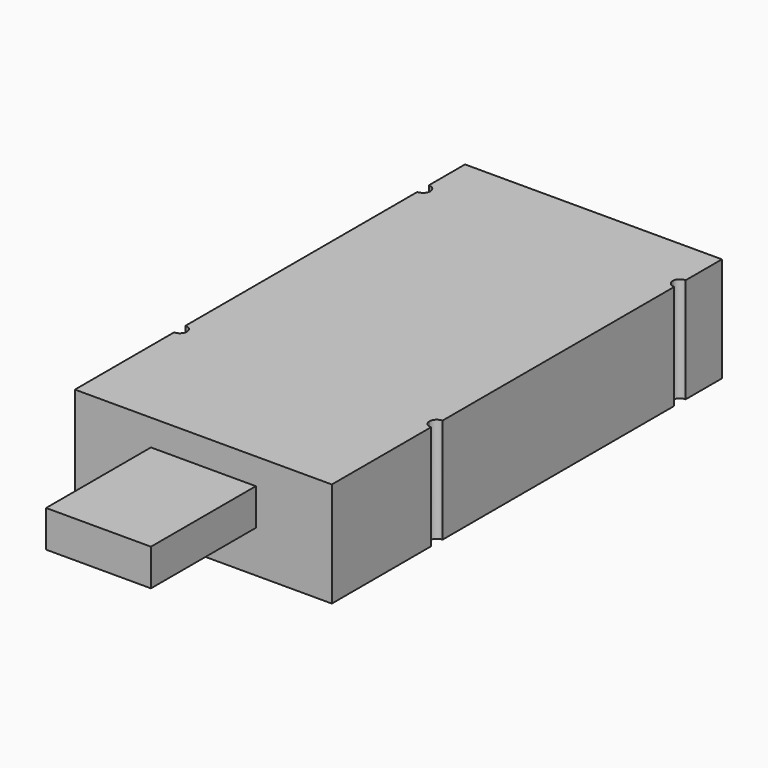
from build123d import *

# Parameters (mm, degrees)
F1_DEPTH = 20
F0_W     = 20
F0_H     = 25
F2_DEPTH = 15
F3_DEPTH = 8


with BuildPart() as f1:
    # F0 (on Top) → F1 (new body)
    with BuildSketch(Plane.XY):
        with BuildLine():
            Line((-14.6488370299, -47.0274474025), (-14.6488370299, 8.2225525975))
            ThreePointArc((-14.6488370299, 8.2225525975), (-15.6211088541, 8.6252807734), (-16.0238370299, 9.5975525975))
            Line((-16.0238370299, 9.5975525975), (-62.2738370299, 9.5975525975))
            ThreePointArc((-62.2738370299, 9.5975525975), (-62.6765652058, 8.6252807734), (-63.6488370299, 8.2225525975))
            Line((-63.6488370299, 8.2225525975), (-63.6488370299, -47.0274474025))
            ThreePointArc((-63.6488370299, -47.0274474025), (-62.6765652058, -47.4301755783), (-62.2738370299, -48.4024474025))
            Line((-62.2738370299, -48.4024474025), (-16.0238370299, -48.4024474025))
            ThreePointArc((-16.0238370299, -48.4024474025), (-15.6211088541, -47.4301755783), (-14.6488370299, -47.0274474025))
        make_face()
        with BuildLine():
            ThreePointArc((-16.0238370299, 9.5975525975), (-15.6211088541, 10.5698244217), (-14.6488370299, 10.9725525975))
            Line((-14.6488370299, 10.9725525975), (-14.6488370299, 19.5975525975))
            Line((-14.6488370299, 19.5975525975), (-63.6488370299, 19.5975525975))
            Line((-63.6488370299, 19.5975525975), (-63.6488370299, 10.9725525975))
            ThreePointArc((-63.6488370299, 10.9725525975), (-62.6765652058, 10.5698244217), (-62.2738370299, 9.5975525975))
            Line((-62.2738370299, 9.5975525975), (-16.0238370299, 9.5975525975))
        make_face()
        with BuildLine():
            ThreePointArc((-14.6488370299, -49.7774474025), (-15.6211088541, -49.3747192266), (-16.0238370299, -48.4024474025))
            Line((-16.0238370299, -48.4024474025), (-62.2738370299, -48.4024474025))
            ThreePointArc((-62.2738370299, -48.4024474025), (-62.6765652058, -49.3747192266), (-63.6488370299, -49.7774474025))
            Line((-63.6488370299, -49.7774474025), (-63.6488370299, -73.4024474025))
            Line((-63.6488370299, -73.4024474025), (-49.1488370299, -73.4024474025))
            Line((-49.1488370299, -73.4024474025), (-29.1488370299, -73.4024474025))
            Line((-29.1488370299, -73.4024474025), (-14.6488370299, -73.4024474025))
            Line((-14.6488370299, -73.4024474025), (-14.6488370299, -49.7774474025))
        make_face()
    extrude(amount=F1_DEPTH)

    # F0 (on Top) → F2 (join)
    with BuildSketch(Plane.XY):
        with Locations((-39.1488370299, -85.9024474025)):
            Rectangle(F0_W, F0_H)
    extrude(amount=F2_DEPTH)

    # F0 (on Top) → F3 (cut)
    with BuildSketch(Plane.XY):
        with Locations((-39.1488370299, -85.9024474025)):
            Rectangle(F0_W, F0_H)
    extrude(amount=F3_DEPTH, mode=Mode.SUBTRACT)


solid = f1.part
